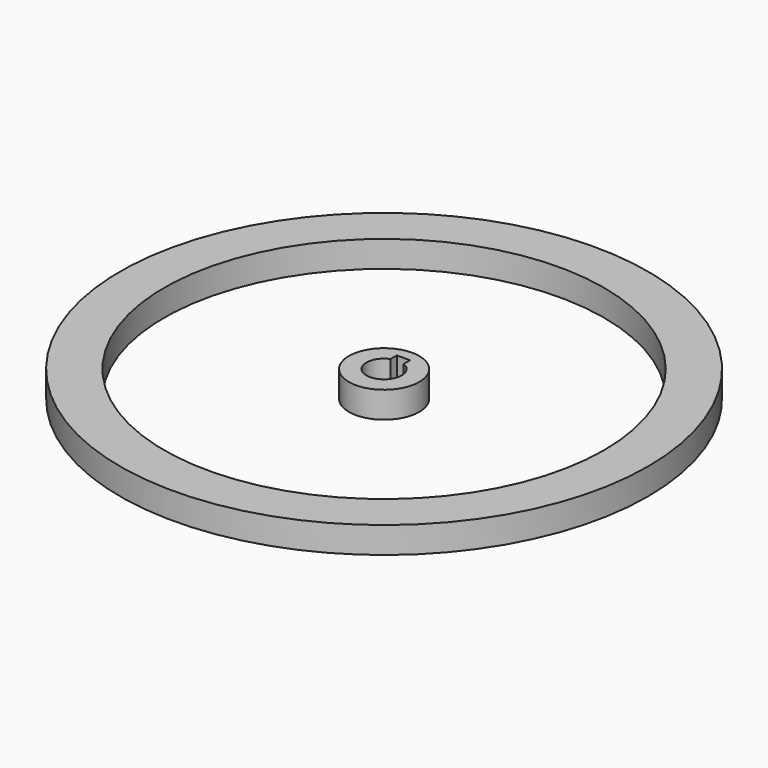
from build123d import *

# Parameters (mm, degrees)
F0_R     = 40
F1_DEPTH = 30
F0_R_2   = 300
F0_R_3   = 250


with BuildPart() as f1:
    # F0 (on Top) → F1 (new body)
    with BuildSketch(Plane.XY):
        Circle(F0_R)
        with BuildLine():
            ThreePointArc((7.5, 18.5404962177), (0, -20), (-7.5, 18.5404962177))
            Line((-7.5, 18.5404962177), (-7.5, 27.5))
            Line((-7.5, 27.5), (7.5, 27.5))
            Line((7.5, 27.5), (7.5, 18.5404962177))
        make_face(mode=Mode.SUBTRACT)
    extrude(amount=F1_DEPTH)


with BuildPart() as f1b:
    # F0 (on Top) → F1, piece 2 (new body)
    with BuildSketch(Plane.XY):
        Circle(F0_R_2)
        Circle(F0_R_3, mode=Mode.SUBTRACT)
    extrude(amount=F1_DEPTH)


solid = Compound([f1.part, f1b.part])
